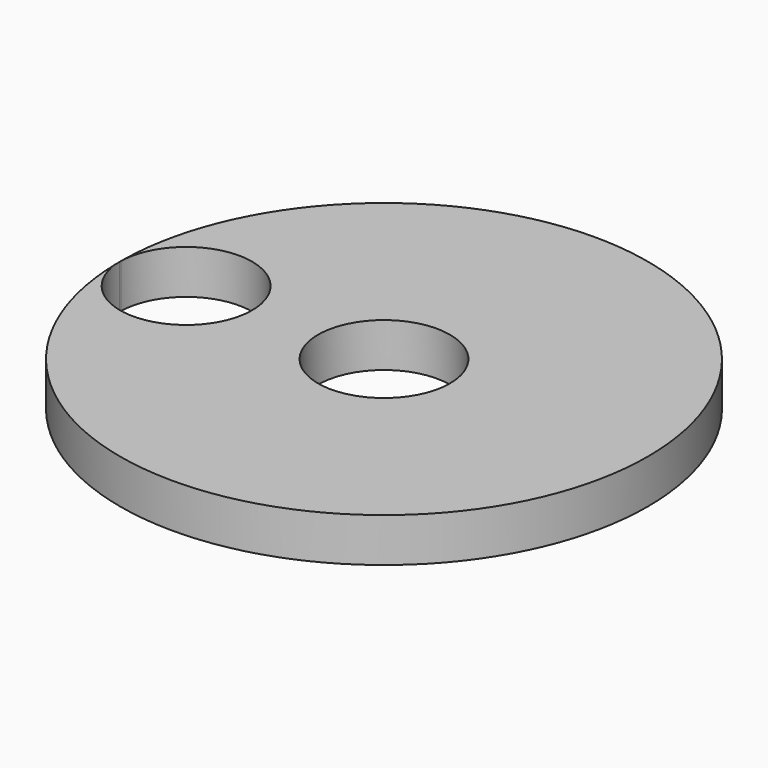
from build123d import *

# Parameters (mm, degrees)
F0_R     = 19.05
F1_DEPTH = 3.175
F2_R     = 4.7625
F3_DEPTH = 9.8425


with BuildPart() as f1:
    # F0 (on Top) → F1 (new body)
    with BuildSketch(Plane.XY):
        Circle(F0_R)
    extrude(amount=F1_DEPTH)

    # F2 (on face) → F3 (cut)
    with BuildSketch(Plane.XY.offset(3.175)):
        with Locations((-14.28496, 0)):
            Circle(F2_R)
        Circle(F2_R)
    extrude(amount=-F3_DEPTH, mode=Mode.SUBTRACT)


solid = f1.part
